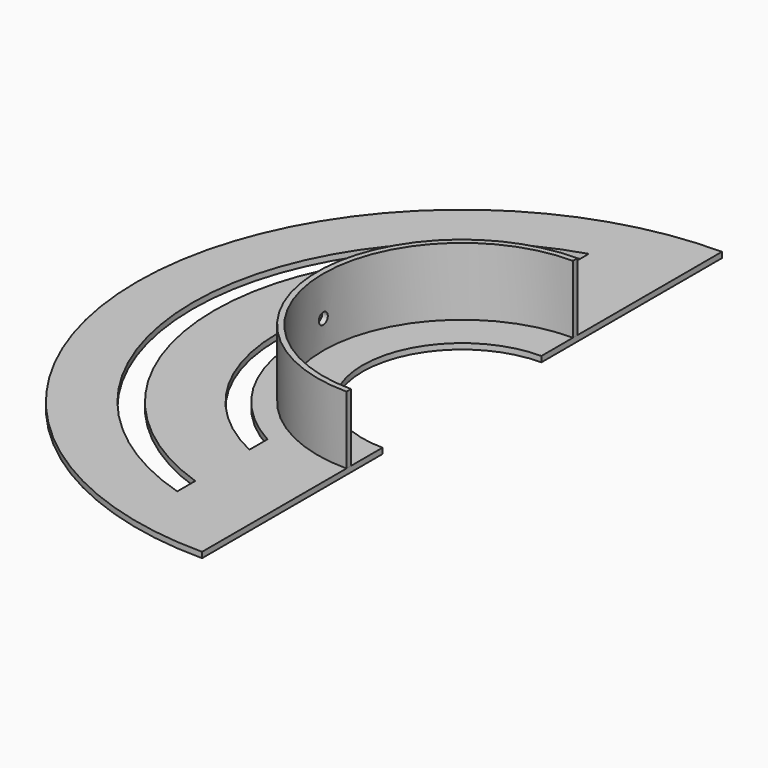
from build123d import *

# Parameters (mm, degrees)
F0_R     = 365.76
F0_R_2   = 111.76
F1_DEPTH = 6.35
F2_W     = 380.011261
F2_H     = 787.612766
F3_DEPTH = 6.351
F5_DEPTH = 6.351
F7_DEPTH = 76.2
F8_R     = 6.35
F9_DEPTH = 365.761


with BuildPart() as f1:
    # F0 (on Top) → F1 (new body)
    with BuildSketch(Plane.XY):
        Circle(F0_R)
        Circle(F0_R_2, mode=Mode.SUBTRACT)
    extrude(amount=F1_DEPTH)

    # F2 (on face) → F3 (cut, through all)
    with BuildSketch(Plane.XY.offset(6.35)):
        with Locations((190.00563, 1.120374)):
            Rectangle(F2_W, F2_H)
    extrude(amount=-F3_DEPTH, mode=Mode.SUBTRACT)

    # F4 (on face) → F5 (cut, through all)
    with BuildSketch(Plane.XY.offset(6.35)):
        with BuildLine():
            ThreePointArc((-88.9, 289.56), (-302.899659, 0), (-88.9, -289.56))
            Line((-88.9, -289.56), (-88.9, -264.16))
            ThreePointArc((-88.9, -264.16), (-278.717986, 0), (-88.9, 264.16))
            Line((-88.9, 264.16), (-88.9, 289.56))
        make_face()
        with BuildLine():
            ThreePointArc((-88.9, 187.96), (-207.923475, 0), (-88.9, -187.96))
            Line((-88.9, -187.96), (-88.9, -162.56))
            ThreePointArc((-88.9, -162.56), (-185.28077, 0), (-88.9, 162.56))
            Line((-88.9, 162.56), (-88.9, 187.96))
        make_face()
    extrude(amount=-F5_DEPTH, mode=Mode.SUBTRACT)

    # F6 (on face) → F7 (join)
    with BuildSketch(Plane.XY.offset(6.35)):
        with BuildLine():
            Line((0, 156.21), (0, 162.56))
            ThreePointArc((0, 162.56), (-162.56, 0), (0, -162.56))
            Line((0, -162.56), (0, -156.21))
            ThreePointArc((0, -156.21), (-156.21, 0), (0, 156.21))
        make_face()
    extrude(amount=F7_DEPTH)

    # F8 (on Right) → F9 (cut, through all)
    with BuildSketch(Plane.YZ):
        with Locations((0, 38.1)):
            Circle(F8_R)
    extrude(amount=-F9_DEPTH, mode=Mode.SUBTRACT)


solid = f1.part
